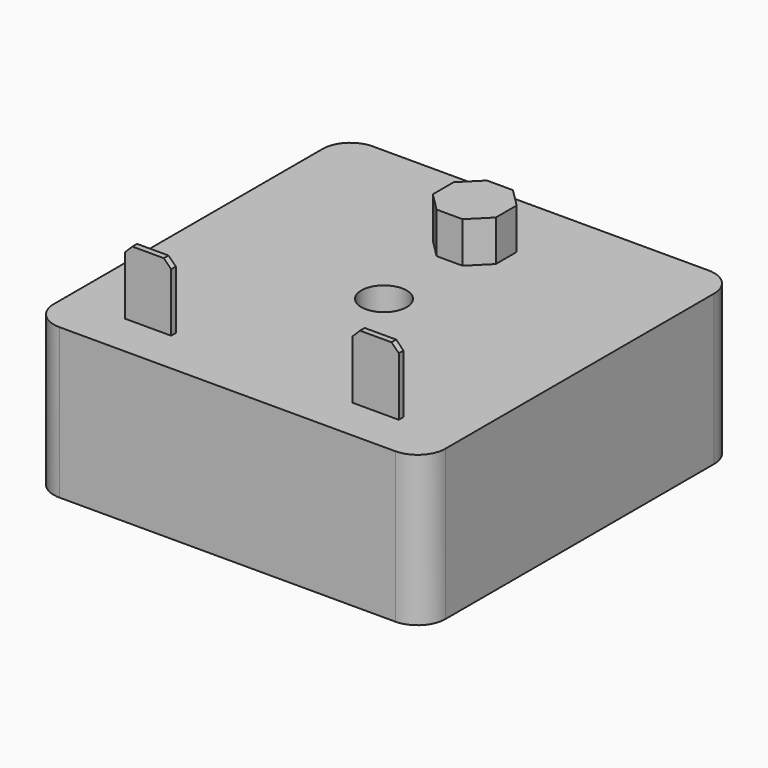
from build123d import *

# Parameters (mm, degrees)
F0_R     = 3.1
F1_DEPTH = 20.5
F3_DEPTH = 5.6
F4_W     = 6.3
F4_H     = 0.8
F5_DEPTH = 9
F6_SIZE  = 1


with BuildPart() as f1:
    # F0 (on Top) → F1 (new body)
    with BuildSketch(Plane.XY):
        with BuildLine():
            Line((-22.95, -26.75), (22.95, -26.75))
            ThreePointArc((22.95, -26.75), (25.637006, -25.637006), (26.75, -22.95))
            Line((26.75, -22.95), (26.75, 22.95))
            ThreePointArc((26.75, 22.95), (25.637006, 25.637006), (22.95, 26.75))
            Line((22.95, 26.75), (-22.95, 26.75))
            ThreePointArc((-22.95, 26.75), (-25.637006, 25.637006), (-26.75, 22.95))
            Line((-26.75, 22.95), (-26.75, -22.95))
            ThreePointArc((-26.75, -22.95), (-25.637006, -25.637006), (-22.95, -26.75))
        make_face()
        Circle(F0_R, mode=Mode.SUBTRACT)
    extrude(amount=F1_DEPTH)

    # F2 (on face) → F3 (join)
    with BuildSketch(Plane.XY.offset(20.5)):
        Polygon((4.3, 13.718882), (4.3, 17.281118), (1.781118, 19.8), (-1.781118, 19.8), (-4.3, 17.281118), (-4.3, 13.718882), (-1.781118, 11.2), (1.781118, 11.2), align=None)
    extrude(amount=F3_DEPTH)

    # F4 (on face) → F5 (join)
    with BuildSketch(Plane.XY.offset(20.5)):
        with Locations((-15.55, -20.45)):
            Rectangle(F4_W, F4_H)
        with Locations((15.55, -20.45)):
            Rectangle(F4_W, F4_H)
    extrude(amount=F5_DEPTH)

    # F6
    f6_edges = [f1.edges().sort_by_distance(p)[0] for p in [
        (-18.7, -20.45, 29.5),
        (-12.4, -20.45, 29.5),
        (12.4, -20.45, 29.5),
        (18.7, -20.45, 29.5),
    ]]
    chamfer(f6_edges, length=F6_SIZE)


solid = f1.part
